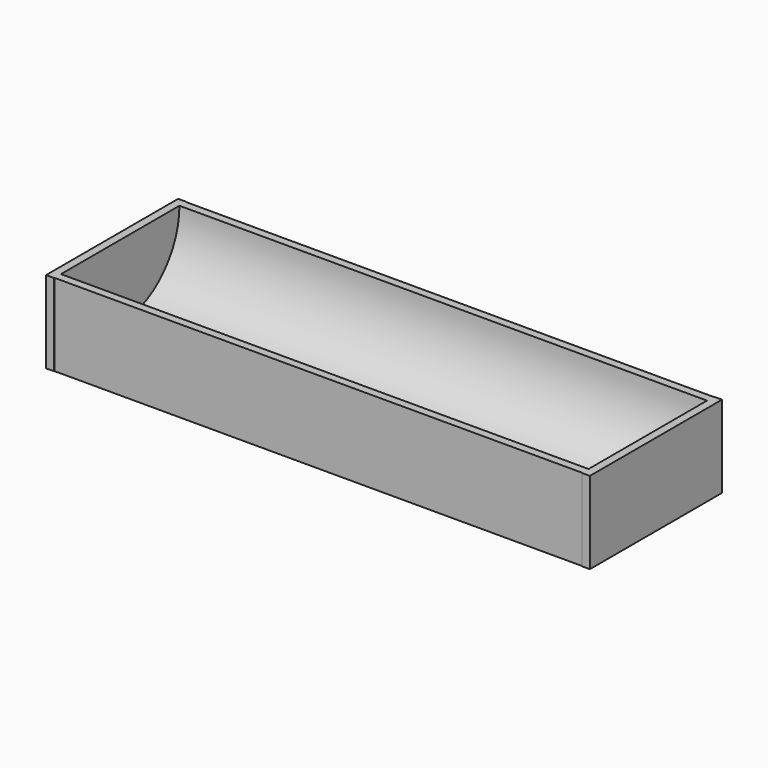
from build123d import *

# Parameters (mm, degrees)
F2_DEPTH = 32.6
F3_DEPTH = 10.15


with BuildPart() as f2:
    # F1 (on Right) → F2 (new body, symmetric)
    with BuildSketch(Plane.YZ):
        with BuildLine():
            ThreePointArc((9.15, 10.15), (0, 1), (-9.15, 10.15))
            Line((-9.15, 10.15), (-10.15, 10.15))
            Line((-10.15, 10.15), (-10.15, 0))
            Line((-10.15, 0), (10.15, 0))
            Line((10.15, 0), (10.15, 10.15))
            Line((10.15, 10.15), (9.15, 10.15))
        make_face()
    extrude(amount=F2_DEPTH, both=True)

    # F0 (on Top) → F3 (join, through all)
    with BuildSketch(Plane.XY):
        Polygon((-32.6, -10.2), (-32.6, -9.2), (-32.6, 9.2), (-32.6, 10.2), (-33.6, 10.2), (-33.6, -10.2), align=None)
        Polygon((32.6, 9.2), (32.6, -9.2), (32.6, -10.2), (33.6, -10.2), (33.6, 10.2), (32.6, 10.2), align=None)
    extrude(amount=F3_DEPTH)


solid = f2.part
